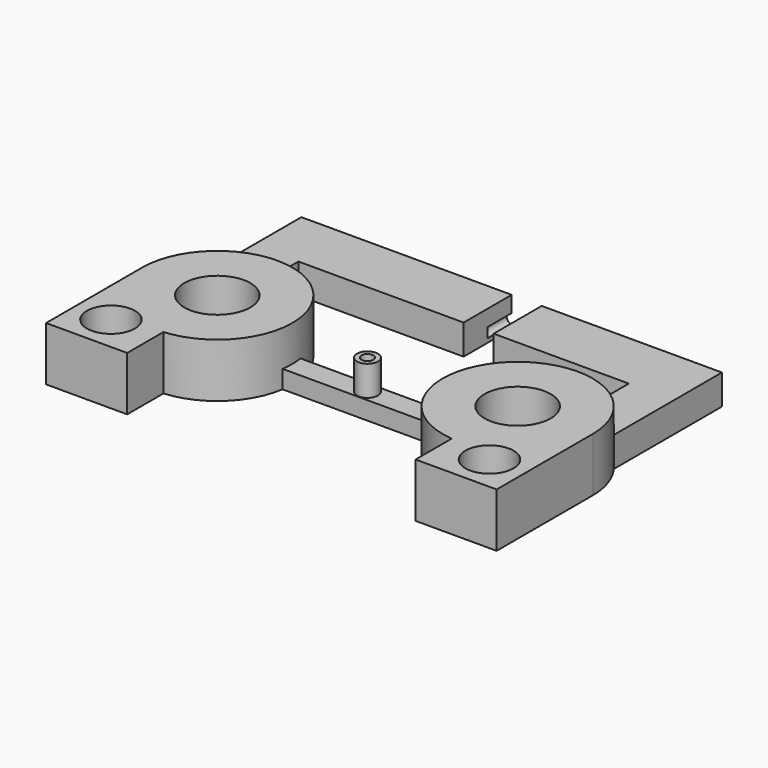
from build123d import *

# Parameters (mm, degrees)
BOX006_W          = 1
BOX006_H          = 6
BOX006_DEPTH      = 4
BOX005_W          = 9
BOX005_H          = 1
BOX005_DEPTH      = 1
CYLINDER144_R     = 0.8
CYLINDER144_DEPTH = 10
CYLINDER136_R     = 0.2
CYLINDER136_DEPTH = 9
CYLINDER_R        = 1.1
CYLINDER_DEPTH    = 4
CYLINDER139_R     = 1.1
CYLINDER139_DEPTH = 4
CYLINDER138_R     = 0.165
CYLINDER138_DEPTH = 8
CYLINDER143_R     = 0.8
CYLINDER143_DEPTH = 10
BOX003_W          = 2.7
BOX003_H          = 4
BOX003_DEPTH      = 1.8
BOX004_W          = 2.7
BOX004_H          = 4
BOX004_DEPTH      = 1.8
CYLINDER142_R     = 2.5
CYLINDER142_DEPTH = 1.8
CYLINDER141_R     = 2.5
CYLINDER141_DEPTH = 1.8
CYLINDER140_R     = 0.35
CYLINDER140_DEPTH = 1
BOX_W             = 10
BOX_H             = 0.75
BOX_DEPTH         = 0.6
BOX002_W          = 11
BOX002_H          = 4
BOX002_DEPTH      = 1
BOX001_W          = 14
BOX001_H          = 6
BOX001_DEPTH      = 1


with BuildPart() as cube003:
    # Box006 → Box006 (new body)
    with BuildSketch(Plane(origin=(0, 3, -1), x_dir=(1, 0, 0), z_dir=(0, 0, 1))):
        with Locations((0.5, 3)):
            Rectangle(BOX006_W, BOX006_H)
    extrude(amount=BOX006_DEPTH)


with BuildPart() as cube002:
    # Box005 → Box005 (new body)
    with BuildSketch(Plane(origin=(-5, 4, -0.3), x_dir=(1, 0, 0), z_dir=(0, 0, 1))):
        with Locations((4.5, 0.5)):
            Rectangle(BOX005_W, BOX005_H)
    extrude(amount=BOX005_DEPTH)


with BuildPart() as cylinder001:
    # Cylinder144 → Cylinder144 (new body)
    with BuildSketch(Plane(origin=(6.3, -2.8, -1), x_dir=(1, 0, 0), z_dir=(0, 0, 1))):
        Circle(CYLINDER144_R)
    extrude(amount=CYLINDER144_DEPTH)


with BuildPart() as bowtienozzle:
    # Cylinder136 → Cylinder136 (new body)
    with BuildSketch(Plane.XY):
        Circle(CYLINDER136_R)
    extrude(amount=CYLINDER136_DEPTH)


with BuildPart() as mountinghole1:
    # Cylinder → Cylinder (new body)
    with BuildSketch(Plane(origin=(-5, 0, -1), x_dir=(1, 0, 0), z_dir=(0, 0, 1))):
        Circle(CYLINDER_R)
    extrude(amount=CYLINDER_DEPTH)


with BuildPart() as mountinghole2:
    # Cylinder139 → Cylinder139 (new body)
    with BuildSketch(Plane(origin=(5, 0, -1), x_dir=(1, 0, 0), z_dir=(0, 0, 1))):
        Circle(CYLINDER139_R)
    extrude(amount=CYLINDER139_DEPTH)


with BuildPart() as fusion001:
    # Cylinder138 → Cylinder138 (new body)
    with BuildSketch(Plane(origin=(0, 0, 0), x_dir=(1, 0, 0), z_dir=(0, 1, 0))):
        Circle(CYLINDER138_R)
    extrude(amount=CYLINDER138_DEPTH)

    # Fusion001: union BowTieNozzle, MountingHole1, MountingHole2
    add(bowtienozzle.part)
    add(mountinghole1.part)
    add(mountinghole2.part)


with BuildPart() as fusion003:
    # Cylinder143 → Cylinder143 (new body)
    with BuildSketch(Plane(origin=(-6.3, -2.8, -1), x_dir=(1, 0, 0), z_dir=(0, 0, 1))):
        Circle(CYLINDER143_R)
    extrude(amount=CYLINDER143_DEPTH)

    # Fusion003: union Cylinder001, Fusion001
    add(cylinder001.part)
    add(fusion001.part)


with BuildPart() as cube:
    # Box003 → Box003 (new body)
    with BuildSketch(Plane(origin=(4.8, -4, -0.3), x_dir=(1, 0, 0), z_dir=(0, 0, 1))):
        with Locations((1.35, 2)):
            Rectangle(BOX003_W, BOX003_H)
    extrude(amount=BOX003_DEPTH)


with BuildPart() as cube001:
    # Box004 → Box004 (new body)
    with BuildSketch(Plane(origin=(-7.5, -4, -0.3), x_dir=(1, 0, 0), z_dir=(0, 0, 1))):
        with Locations((1.35, 2)):
            Rectangle(BOX004_W, BOX004_H)
    extrude(amount=BOX004_DEPTH)


with BuildPart() as obj1:
    # Cylinder142 → Cylinder142 (new body)
    with BuildSketch(Plane(origin=(5, 0, -0.3), x_dir=(1, 0, 0), z_dir=(0, 0, 1))):
        Circle(CYLINDER142_R)
    extrude(amount=CYLINDER142_DEPTH)


with BuildPart() as obj2:
    # Cylinder141 → Cylinder141 (new body)
    with BuildSketch(Plane(origin=(-5, 0, -0.3), x_dir=(1, 0, 0), z_dir=(0, 0, 1))):
        Circle(CYLINDER141_R)
    extrude(amount=CYLINDER141_DEPTH)


with BuildPart() as nozzle_od:
    # Cylinder140 → Cylinder140 (new body)
    with BuildSketch(Plane.XY.offset(0.3)):
        Circle(CYLINDER140_R)
    extrude(amount=CYLINDER140_DEPTH)


with BuildPart() as fusion:
    # Box → Box (new body)
    with BuildSketch(Plane(origin=(-5, -0.375, -0.3), x_dir=(1, 0, 0), z_dir=(0, 0, 1))):
        with Locations((5, 0.375)):
            Rectangle(BOX_W, BOX_H)
    extrude(amount=BOX_DEPTH)

    # Fusion: union obj1, obj2, Nozzle_OD
    add(obj1.part)
    add(obj2.part)
    add(nozzle_od.part)


with BuildPart() as supportsubtract:
    # Box002 → Box002 (new body)
    with BuildSketch(Plane(origin=(-5.5, 0, -0.3), x_dir=(1, 0, 0), z_dir=(0, 0, 1))):
        with Locations((5.5, 2)):
            Rectangle(BOX002_W, BOX002_H)
    extrude(amount=BOX002_DEPTH)


with BuildPart() as cut002:
    # Box001 → Box001 (new body)
    with BuildSketch(Plane(origin=(-7, 0, -0.3), x_dir=(1, 0, 0), z_dir=(0, 0, 1))):
        with Locations((7, 3)):
            Rectangle(BOX001_W, BOX001_H)
    extrude(amount=BOX001_DEPTH)

    # Cut: cut SupportSubtract
    add(supportsubtract.part, mode=Mode.SUBTRACT)

    # Fusion002: union Cube, Cube001, Fusion
    add(cube.part)
    add(cube001.part)
    add(fusion.part)

    # Cut001: cut Fusion003
    add(fusion003.part, mode=Mode.SUBTRACT)

    # Fusion004: union Cube002
    add(cube002.part)

    # Cut002: cut Cube003
    add(cube003.part, mode=Mode.SUBTRACT)


solid = cut002.part
